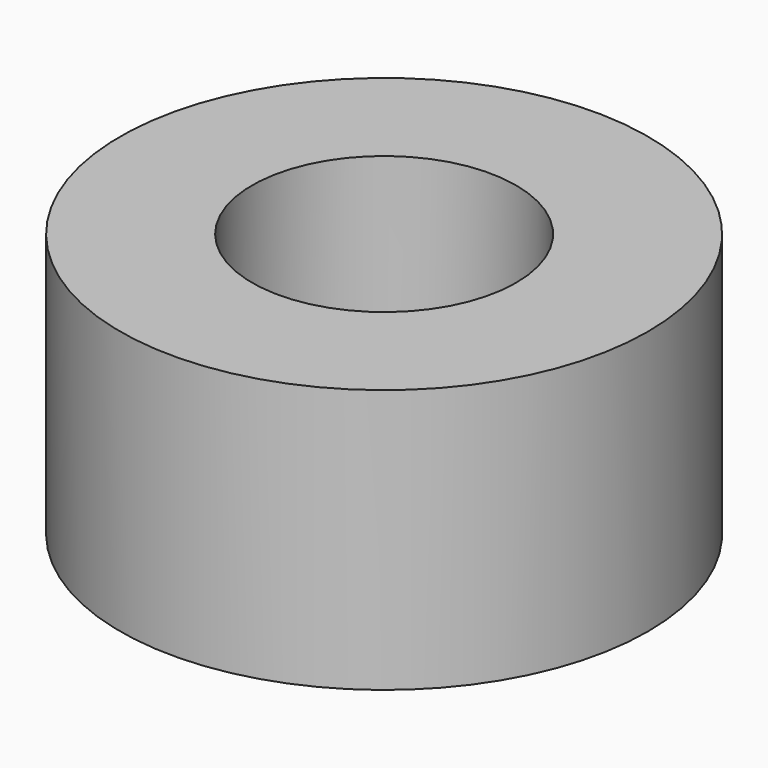
from build123d import *

# Parameters (mm, degrees)
SKETCH_R   = 5
SKETCH_R_2 = 2.5
PAD_DEPTH  = 5


with BuildPart() as part:
    # Sketch → Pad (new body)
    with BuildSketch(Plane.XY):
        Circle(SKETCH_R)
        Circle(SKETCH_R_2, mode=Mode.SUBTRACT)
    extrude(amount=PAD_DEPTH)


solid = part.part
